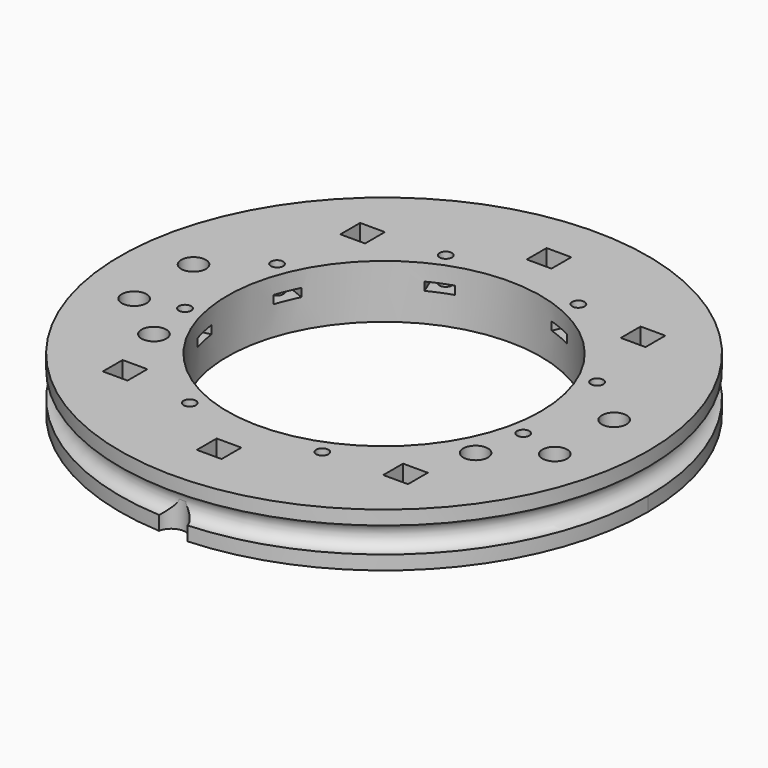
from build123d import *

# Parameters (mm, degrees)
CYLINDER529_R               = 1.5
CYLINDER529_DEPTH           = 100
CYLINDER528_R               = 1.5
CYLINDER528_DEPTH           = 100
CYLINDER533_R               = 3
CYLINDER533_DEPTH           = 7
CYLINDER532_R               = 3
CYLINDER532_DEPTH           = 7
BOX158_W                    = 6
BOX158_H                    = 8
BOX158_DEPTH                = 2
BOX158_PLACEMENT_ANGLE      = 77.5
BOX159_W                    = 6
BOX159_H                    = 8
BOX159_DEPTH                = 2
BOX159_PLACEMENT_ANGLE      = 112.5
BOX160_W                    = 6
BOX160_H                    = 8
BOX160_DEPTH                = 2
BOX160_PLACEMENT_ANGLE      = 157.5
BOX161_W                    = 6
BOX161_H                    = 8
BOX161_DEPTH                = 2
BOX161_PLACEMENT_ANGLE      = 202.5
BOX162_W                    = 6
BOX162_H                    = 8
BOX162_DEPTH                = 2
BOX162_PLACEMENT_ANGLE      = -112.5
BOX163_W                    = 6
BOX163_H                    = 8
BOX163_DEPTH                = 2
BOX163_PLACEMENT_ANGLE      = 77.5
BOX164_W                    = 6
BOX164_H                    = 8
BOX164_DEPTH                = 2
BOX164_PLACEMENT_ANGLE      = 22.5
BOX157_W                    = 6
BOX157_H                    = 8
BOX157_DEPTH                = 2
BOX157_PLACEMENT_ANGLE      = 22.5
CYLINDER469_R               = 1.5
CYLINDER469_DEPTH           = 100
CYLINDER469_PLACEMENT_ANGLE = 100
CYLINDER470_R               = 1.5
CYLINDER470_DEPTH           = 100
CYLINDER470_PLACEMENT_ANGLE = 135
CYLINDER471_R               = 1.5
CYLINDER471_DEPTH           = 100
CYLINDER472_R               = 1.5
CYLINDER472_DEPTH           = 100
CYLINDER472_PLACEMENT_ANGLE = 225
CYLINDER473_R               = 1.5
CYLINDER473_DEPTH           = 100
CYLINDER474_R               = 1.5
CYLINDER474_DEPTH           = 100
CYLINDER474_PLACEMENT_ANGLE = 55
CYLINDER475_R               = 1.5
CYLINDER475_DEPTH           = 100
CYLINDER468_R               = 1.5
CYLINDER468_DEPTH           = 100
CYLINDER468_PLACEMENT_ANGLE = 45
BOX147_W                    = 6
BOX147_H                    = 6
BOX147_DEPTH                = 10
BOX146_W                    = 6
BOX146_H                    = 6
BOX146_DEPTH                = 10
BOX148_W                    = 6
BOX148_H                    = 6
BOX148_DEPTH                = 10
BOX149_W                    = 6
BOX149_H                    = 6
BOX149_DEPTH                = 10
BOX150_W                    = 6
BOX150_H                    = 6
BOX150_DEPTH                = 10
BOX145_W                    = 6
BOX145_H                    = 6
BOX145_DEPTH                = 10
CYLINDER411_R               = 3
CYLINDER411_DEPTH           = 7
CYLINDER409_R               = 3
CYLINDER409_DEPTH           = 7
CYLINDER410_R               = 3
CYLINDER410_DEPTH           = 7
CYLINDER408_R               = 3
CYLINDER408_DEPTH           = 7
CYLINDER371_R               = 1.5
CYLINDER371_DEPTH           = 50
CYLINDER372_R               = 1.5
CYLINDER372_DEPTH           = 50
CYLINDER373_R               = 1.5
CYLINDER373_DEPTH           = 50
CYLINDER374_R               = 1.5
CYLINDER374_DEPTH           = 50
CYLINDER375_R               = 1.5
CYLINDER375_DEPTH           = 50
CYLINDER376_R               = 1.5
CYLINDER376_DEPTH           = 100
CYLINDER377_R               = 1.5
CYLINDER377_DEPTH           = 50
CYLINDER378_R               = 1.5
CYLINDER378_DEPTH           = 50
CYLINDER379_R               = 1.5
CYLINDER379_DEPTH           = 100
CYLINDER370_R               = 1.5
CYLINDER370_DEPTH           = 50
CYLINDER288_R               = 3.5
CYLINDER288_DEPTH           = 20
TORUS_R                     = 3.1
TUBE019_R                   = 64
TUBE019_R_2                 = 38
TUBE019_DEPTH               = 13


with BuildPart() as obj1:
    # Cylinder529 → Cylinder529 (new body)
    with BuildSketch(Plane(origin=(39, -21, 0), x_dir=(1, 0, 0), z_dir=(0, 0, 1))):
        Circle(CYLINDER529_R)
    extrude(amount=CYLINDER529_DEPTH)


with BuildPart() as compound:
    # Cylinder528 → Cylinder528 (new body)
    with BuildSketch(Plane(origin=(-39, -21, 0), x_dir=(1, 0, 0), z_dir=(0, 0, 1))):
        Circle(CYLINDER528_R)
    extrude(amount=CYLINDER528_DEPTH)

    # Compound: union obj1
    add(obj1.part)


with BuildPart() as obj2:
    # Cylinder533 → Cylinder533 (new body)
    with BuildSketch(Plane(origin=(39, -21, 50), x_dir=(1, 0, 0), z_dir=(0, 0, 1))):
        Circle(CYLINDER533_R)
    extrude(amount=CYLINDER533_DEPTH)


with BuildPart() as compound338:
    # Cylinder532 → Cylinder532 (new body)
    with BuildSketch(Plane(origin=(-39, -21, 50), x_dir=(1, 0, 0), z_dir=(0, 0, 1))):
        Circle(CYLINDER532_R)
    extrude(amount=CYLINDER532_DEPTH)

    # Compound338: union obj2
    add(obj2.part)


with BuildPart() as compound338_1:
    # Compound338 placement: moved
    add(compound338.part.moved(Location((0, 0, -25))))


with BuildPart() as krychle158:
    # Box158 → Box158 (new body)
    with BuildSketch(Plane.XY):
        with Locations((3, 4)):
            Rectangle(BOX158_W, BOX158_H)
    extrude(amount=BOX158_DEPTH)


with BuildPart() as krychle158_1:
    # Box158 placement: moved
    add(krychle158.part.moved(Location((43.284001, -12.668671, 25))).rotate(Axis((43.284001, -12.668671, 25), (0, 0, 1)), BOX158_PLACEMENT_ANGLE))


with BuildPart() as krychle159:
    # Box159 → Box159 (new body)
    with BuildSketch(Plane.XY):
        with Locations((3, 4)):
            Rectangle(BOX159_W, BOX159_H)
    extrude(amount=BOX159_DEPTH)


with BuildPart() as krychle159_1:
    # Box159 placement: moved
    add(krychle159.part.moved(Location((42.722629, 14.449116, 25))).rotate(Axis((42.722629, 14.449116, 25), (0, 0, 1)), BOX159_PLACEMENT_ANGLE))


with BuildPart() as krychle160:
    # Box160 → Box160 (new body)
    with BuildSketch(Plane.XY):
        with Locations((3, 4)):
            Rectangle(BOX160_W, BOX160_H)
    extrude(amount=BOX160_DEPTH)


with BuildPart() as krychle160_1:
    # Box160 placement: moved
    add(krychle160.part.moved(Location((19.992393, 40.426529, 25))).rotate(Axis((19.992393, 40.426529, 25), (0, 0, 1)), BOX160_PLACEMENT_ANGLE))


with BuildPart() as krychle161:
    # Box161 → Box161 (new body)
    with BuildSketch(Plane.XY):
        with Locations((3, 4)):
            Rectangle(BOX161_W, BOX161_H)
    extrude(amount=BOX161_DEPTH)


with BuildPart() as krychle161_1:
    # Box161 placement: moved
    add(krychle161.part.moved(Location((-14.449116, 42.722629, 25))).rotate(Axis((-14.449116, 42.722629, 25), (0, 0, 1)), BOX161_PLACEMENT_ANGLE))


with BuildPart() as krychle162:
    # Box162 → Box162 (new body)
    with BuildSketch(Plane.XY):
        with Locations((3, 4)):
            Rectangle(BOX162_W, BOX162_H)
    extrude(amount=BOX162_DEPTH)


with BuildPart() as krychle162_1:
    # Box162 placement: moved
    add(krychle162.part.moved(Location((-40.426529, 19.992393, 25))).rotate(Axis((-40.426529, 19.992393, 25), (0, 0, 1)), BOX162_PLACEMENT_ANGLE))


with BuildPart() as krychle163:
    # Box163 → Box163 (new body)
    with BuildSketch(Plane.XY):
        with Locations((3, 4)):
            Rectangle(BOX163_W, BOX163_H)
    extrude(amount=BOX163_DEPTH)


with BuildPart() as krychle163_1:
    # Box163 placement: moved
    add(krychle163.part.moved(Location((-44.582639, -6.810895, 25))).rotate(Axis((-44.582639, -6.810895, 25), (0, 0, -1)), BOX163_PLACEMENT_ANGLE))


with BuildPart() as krychle164:
    # Box164 → Box164 (new body)
    with BuildSketch(Plane.XY):
        with Locations((3, 4)):
            Rectangle(BOX164_W, BOX164_H)
    extrude(amount=BOX164_DEPTH)


with BuildPart() as krychle164_1:
    # Box164 placement: moved
    add(krychle164.part.moved(Location((-19.992393, -40.426529, 25))).rotate(Axis((-19.992393, -40.426529, 25), (0, 0, -1)), BOX164_PLACEMENT_ANGLE))


with BuildPart() as compound322:
    # Box157 → Box157 (new body)
    with BuildSketch(Plane.XY):
        with Locations((3, 4)):
            Rectangle(BOX157_W, BOX157_H)
    extrude(amount=BOX157_DEPTH)


with BuildPart() as compound322_1:
    # Box157 placement: moved
    add(compound322.part.moved(Location((14.449116, -42.722629, 25))).rotate(Axis((14.449116, -42.722629, 25), (0, 0, 1)), BOX157_PLACEMENT_ANGLE))

    # Compound322: union Krychle158, Krychle159, Krychle160, Krychle161, Krychle162, Krychle163, Krychle164
    add(krychle158_1.part)
    add(krychle159_1.part)
    add(krychle160_1.part)
    add(krychle161_1.part)
    add(krychle162_1.part)
    add(krychle163_1.part)
    add(krychle164_1.part)


with BuildPart() as obj3:
    # Cylinder469 → Cylinder469 (new body)
    with BuildSketch(Plane.XY):
        Circle(CYLINDER469_R)
    extrude(amount=CYLINDER469_DEPTH)


with BuildPart() as obj3_1:
    # Cylinder469 placement: moved
    add(obj3.part.moved(Location((41.004432, -9.090464, 0))).rotate(Axis((41.004432, -9.090464, 0), (0, 0, 1)), CYLINDER469_PLACEMENT_ANGLE))


with BuildPart() as obj4:
    # Cylinder470 → Cylinder470 (new body)
    with BuildSketch(Plane.XY):
        Circle(CYLINDER470_R)
    extrude(amount=CYLINDER470_DEPTH)


with BuildPart() as obj4_1:
    # Cylinder470 placement: moved
    add(obj4.part.moved(Location((38.80294, 16.072704, 0))).rotate(Axis((38.80294, 16.072704, 0), (0, 0, 1)), CYLINDER470_PLACEMENT_ANGLE))


with BuildPart() as obj5:
    # Cylinder471 → Cylinder471 (new body)
    with BuildSketch(Plane(origin=(16.072704, 38.80294, 0), x_dir=(-1, 0, 0), z_dir=(0, 0, 1))):
        Circle(CYLINDER471_R)
    extrude(amount=CYLINDER471_DEPTH)


with BuildPart() as obj6:
    # Cylinder472 → Cylinder472 (new body)
    with BuildSketch(Plane.XY):
        Circle(CYLINDER472_R)
    extrude(amount=CYLINDER472_DEPTH)


with BuildPart() as obj6_1:
    # Cylinder472 placement: moved
    add(obj6.part.moved(Location((-16.072704, 38.80294, 0))).rotate(Axis((-16.072704, 38.80294, 0), (0, 0, 1)), CYLINDER472_PLACEMENT_ANGLE))


with BuildPart() as obj7:
    # Cylinder473 → Cylinder473 (new body)
    with BuildSketch(Plane(origin=(-38.80294, 16.072704, 0), x_dir=(0, -1, 0), z_dir=(0, 0, 1))):
        Circle(CYLINDER473_R)
    extrude(amount=CYLINDER473_DEPTH)


with BuildPart() as obj8:
    # Cylinder474 → Cylinder474 (new body)
    with BuildSketch(Plane.XY):
        Circle(CYLINDER474_R)
    extrude(amount=CYLINDER474_DEPTH)


with BuildPart() as obj8_1:
    # Cylinder474 placement: moved
    add(obj8.part.moved(Location((-41.004432, -9.090464, 0))).rotate(Axis((-41.004432, -9.090464, 0), (0, 0, -1)), CYLINDER474_PLACEMENT_ANGLE))


with BuildPart() as obj9:
    # Cylinder475 → Cylinder475 (new body)
    with BuildSketch(Plane(origin=(-16.072704, -38.80294, 0), x_dir=(1, 0, 0), z_dir=(0, 0, 1))):
        Circle(CYLINDER475_R)
    extrude(amount=CYLINDER475_DEPTH)


with BuildPart() as compound328:
    # Cylinder468 → Cylinder468 (new body)
    with BuildSketch(Plane.XY):
        Circle(CYLINDER468_R)
    extrude(amount=CYLINDER468_DEPTH)


with BuildPart() as compound328_1:
    # Cylinder468 placement: moved
    add(compound328.part.moved(Location((16.072704, -38.80294, 0))).rotate(Axis((16.072704, -38.80294, 0), (0, 0, 1)), CYLINDER468_PLACEMENT_ANGLE))

    # Compound328: union obj3, obj4, obj5, obj6, obj7, obj8, obj9
    add(obj3_1.part)
    add(obj4_1.part)
    add(obj5.part)
    add(obj6_1.part)
    add(obj7.part)
    add(obj8_1.part)
    add(obj9.part)


with BuildPart() as compound328_2:
    # Compound328 placement: moved
    add(compound328_1.part.moved(Location((0, 0, 20))))


with BuildPart() as krychle147:
    # Box147 → Box147 (new body)
    with BuildSketch(Plane(origin=(-37, -39, 40), x_dir=(1, 0, 0), z_dir=(0, 0, 1))):
        with Locations((3, 3)):
            Rectangle(BOX147_W, BOX147_H)
    extrude(amount=BOX147_DEPTH)


with BuildPart() as krychle146:
    # Box146 → Box146 (new body)
    with BuildSketch(Plane(origin=(-3, -53, 40), x_dir=(1, 0, 0), z_dir=(0, 0, 1))):
        with Locations((3, 3)):
            Rectangle(BOX146_W, BOX146_H)
    extrude(amount=BOX146_DEPTH)


with BuildPart() as krychle148:
    # Box148 → Box148 (new body)
    with BuildSketch(Plane(origin=(31, 33, 40), x_dir=(1, 0, 0), z_dir=(0, 0, 1))):
        with Locations((3, 3)):
            Rectangle(BOX148_W, BOX148_H)
    extrude(amount=BOX148_DEPTH)


with BuildPart() as krychle149:
    # Box149 → Box149 (new body)
    with BuildSketch(Plane(origin=(-37, 33, 40), x_dir=(1, 0, 0), z_dir=(0, 0, 1))):
        with Locations((3, 3)):
            Rectangle(BOX149_W, BOX149_H)
    extrude(amount=BOX149_DEPTH)


with BuildPart() as krychle150:
    # Box150 → Box150 (new body)
    with BuildSketch(Plane(origin=(31, -39, 40), x_dir=(1, 0, 0), z_dir=(0, 0, 1))):
        with Locations((3, 3)):
            Rectangle(BOX150_W, BOX150_H)
    extrude(amount=BOX150_DEPTH)


with BuildPart() as compound315:
    # Box145 → Box145 (new body)
    with BuildSketch(Plane(origin=(-3, 47, 40), x_dir=(1, 0, 0), z_dir=(0, 0, 1))):
        with Locations((3, 3)):
            Rectangle(BOX145_W, BOX145_H)
    extrude(amount=BOX145_DEPTH)

    # Compound315: union Krychle147, Krychle146, Krychle148, Krychle149, Krychle150
    add(krychle147.part)
    add(krychle146.part)
    add(krychle148.part)
    add(krychle149.part)
    add(krychle150.part)


with BuildPart() as compound315_1:
    # Compound315 placement: moved
    add(compound315.part.moved(Location((0, 0, -18))))


with BuildPart() as obj10:
    # Cylinder411 → Cylinder411 (new body)
    with BuildSketch(Plane(origin=(51, -12, 50), x_dir=(1, 0, 0), z_dir=(0, 0, 1))):
        Circle(CYLINDER411_R)
    extrude(amount=CYLINDER411_DEPTH)


with BuildPart() as obj11:
    # Cylinder409 → Cylinder409 (new body)
    with BuildSketch(Plane(origin=(51, 6, 50), x_dir=(1, 0, 0), z_dir=(0, 0, 1))):
        Circle(CYLINDER409_R)
    extrude(amount=CYLINDER409_DEPTH)


with BuildPart() as obj12:
    # Cylinder410 → Cylinder410 (new body)
    with BuildSketch(Plane(origin=(-51, 6, 50), x_dir=(1, 0, 0), z_dir=(0, 0, 1))):
        Circle(CYLINDER410_R)
    extrude(amount=CYLINDER410_DEPTH)


with BuildPart() as compound313:
    # Cylinder408 → Cylinder408 (new body)
    with BuildSketch(Plane(origin=(-51, -12, 50), x_dir=(1, 0, 0), z_dir=(0, 0, 1))):
        Circle(CYLINDER408_R)
    extrude(amount=CYLINDER408_DEPTH)

    # Compound313: union obj10, obj11, obj12
    add(obj10.part)
    add(obj11.part)
    add(obj12.part)


with BuildPart() as compound313_1:
    # Compound313 placement: moved
    add(compound313.part.moved(Location((0, 0, -25))))


with BuildPart() as obj13:
    # Cylinder371 → Cylinder371 (new body)
    with BuildSketch(Plane(origin=(34, 36, 0), x_dir=(1, 0, 0), z_dir=(0, 0, 1))):
        Circle(CYLINDER371_R)
    extrude(amount=CYLINDER371_DEPTH)


with BuildPart() as obj14:
    # Cylinder372 → Cylinder372 (new body)
    with BuildSketch(Plane(origin=(-34, -36, 0), x_dir=(1, 0, 0), z_dir=(0, 0, 1))):
        Circle(CYLINDER372_R)
    extrude(amount=CYLINDER372_DEPTH)


with BuildPart() as obj15:
    # Cylinder373 → Cylinder373 (new body)
    with BuildSketch(Plane(origin=(34, -36, 0), x_dir=(1, 0, 0), z_dir=(0, 0, 1))):
        Circle(CYLINDER373_R)
    extrude(amount=CYLINDER373_DEPTH)


with BuildPart() as obj16:
    # Cylinder374 → Cylinder374 (new body)
    with BuildSketch(Plane(origin=(0, 50, 0), x_dir=(1, 0, 0), z_dir=(0, 0, 1))):
        Circle(CYLINDER374_R)
    extrude(amount=CYLINDER374_DEPTH)


with BuildPart() as obj17:
    # Cylinder375 → Cylinder375 (new body)
    with BuildSketch(Plane(origin=(0, -50, 0), x_dir=(1, 0, 0), z_dir=(0, 0, 1))):
        Circle(CYLINDER375_R)
    extrude(amount=CYLINDER375_DEPTH)


with BuildPart() as obj18:
    # Cylinder376 → Cylinder376 (new body)
    with BuildSketch(Plane(origin=(-51, -12, 0), x_dir=(1, 0, 0), z_dir=(0, 0, 1))):
        Circle(CYLINDER376_R)
    extrude(amount=CYLINDER376_DEPTH)


with BuildPart() as obj19:
    # Cylinder377 → Cylinder377 (new body)
    with BuildSketch(Plane(origin=(51, 6, 0), x_dir=(1, 0, 0), z_dir=(0, 0, 1))):
        Circle(CYLINDER377_R)
    extrude(amount=CYLINDER377_DEPTH)


with BuildPart() as obj20:
    # Cylinder378 → Cylinder378 (new body)
    with BuildSketch(Plane(origin=(-51, 6, 0), x_dir=(1, 0, 0), z_dir=(0, 0, 1))):
        Circle(CYLINDER378_R)
    extrude(amount=CYLINDER378_DEPTH)


with BuildPart() as obj21:
    # Cylinder379 → Cylinder379 (new body)
    with BuildSketch(Plane(origin=(51, -12, 0), x_dir=(1, 0, 0), z_dir=(0, 0, 1))):
        Circle(CYLINDER379_R)
    extrude(amount=CYLINDER379_DEPTH)


with BuildPart() as compound308:
    # Cylinder370 → Cylinder370 (new body)
    with BuildSketch(Plane(origin=(-34, 36, 0), x_dir=(1, 0, 0), z_dir=(0, 0, 1))):
        Circle(CYLINDER370_R)
    extrude(amount=CYLINDER370_DEPTH)

    # Compound308: union obj13, obj14, obj15, obj16, obj17, obj18, obj19, obj20, obj21
    add(obj13.part)
    add(obj14.part)
    add(obj15.part)
    add(obj16.part)
    add(obj17.part)
    add(obj18.part)
    add(obj19.part)
    add(obj20.part)
    add(obj21.part)


with BuildPart() as obj22:
    # Cylinder288 → Cylinder288 (new body)
    with BuildSketch(Plane(origin=(0, -64.5, 4.5), x_dir=(1, 0, 0), z_dir=(0, 0, 1))):
        Circle(CYLINDER288_R)
    extrude(amount=CYLINDER288_DEPTH)


with BuildPart() as obj23:
    # Torus → Torus (revolve)
    with BuildSketch(Plane(origin=(0, 0, 24.5), x_dir=(1, 0, 0), z_dir=(0, -1, 0))):
        with Locations((64.2, 0)):
            Circle(TORUS_R)
    revolve(axis=Axis((0, 0, 24.5), (0, 0, 1)))


with BuildPart() as cut177:
    # Tube019 → Tube019 (new body)
    with BuildSketch(Plane.XY.offset(18)):
        Circle(TUBE019_R)
        Circle(TUBE019_R_2, mode=Mode.SUBTRACT)
    extrude(amount=TUBE019_DEPTH)

    # Cut129: cut obj23
    add(obj23.part, mode=Mode.SUBTRACT)

    # Cut130: cut obj22
    add(obj22.part, mode=Mode.SUBTRACT)

    # Cut160: cut Compound308
    add(compound308.part, mode=Mode.SUBTRACT)

    # Cut162: cut Compound313
    add(compound313_1.part, mode=Mode.SUBTRACT)

    # Cut164: cut Compound315
    add(compound315_1.part, mode=Mode.SUBTRACT)

    # Cut174: cut Compound328
    add(compound328_2.part, mode=Mode.SUBTRACT)

    # Cut175: cut Compound322
    add(compound322_1.part, mode=Mode.SUBTRACT)

    # Cut176: cut Compound338
    add(compound338_1.part, mode=Mode.SUBTRACT)

    # Cut177: cut Compound
    add(compound.part, mode=Mode.SUBTRACT)


solid = cut177.part
